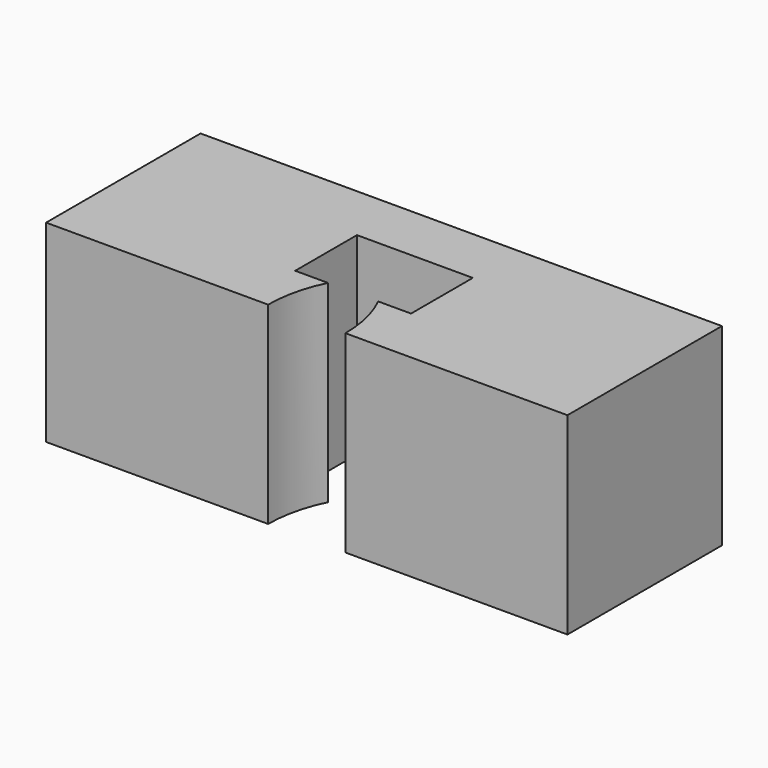
from build123d import *

# Parameters (mm, degrees)
F0_W     = 13.5
F0_H     = 5
F1_DEPTH = 5
F3_DEPTH = 25


with BuildPart() as f1:
    # F0 (on Top) → F1 (new body)
    with BuildSketch(Plane.XY):
        Rectangle(F0_W, F0_H)
    extrude(amount=F1_DEPTH)

    # F2 (on face) → F3 (cut)
    with BuildSketch(Plane.XY.offset(5)):
        Polygon((1.5, -1), (1.5, 1), (-1.5, 1), (-1.5, -1), (-1, -1), (-1, 0.5), (1, 0.5), (1, -1), align=None)
        Polygon((0.65, -1), (1, -1), (1, 0.5), (-1, 0.5), (-1, -1), (-0.65, -1), align=None)
        with BuildLine():
            ThreePointArc((1, -2.5), (0.91134, -1.729854), (0.65, -1))
            Line((0.65, -1), (-0.65, -1))
            ThreePointArc((-0.65, -1), (-0.91134, -1.729854), (-1, -2.5))
            Line((-1, -2.5), (1, -2.5))
        make_face()
    extrude(amount=-F3_DEPTH, mode=Mode.SUBTRACT)


solid = f1.part
